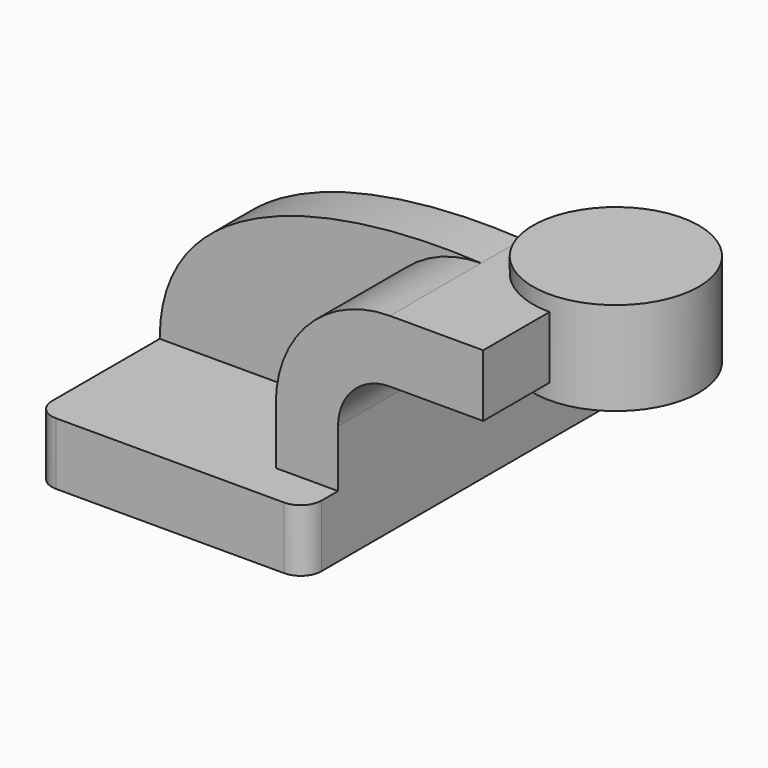
from build123d import *

# Parameters (mm, degrees)
F1_DEPTH = 63.5
F2_DEPTH = 50.8
F3_DEPTH = 15.875
F5_R     = 6.35


with BuildPart() as f1:
    # F0 (on Front) → F1 (new body, symmetric)
    with BuildSketch(Plane.XZ):
        Polygon((41.275, -9.525), (41.275, 9.525), (22.225, 9.525), (-41.275, 9.525), (-41.275, -9.525), align=None)
    extrude(amount=F1_DEPTH, both=True)

    # F0 (on Front) → F2 (join)
    with BuildSketch(Plane.XZ):
        with BuildLine():
            Line((22.225, 9.525), (41.275, 9.525))
            Line((41.275, 9.525), (41.275, 27.0002))
            ThreePointArc((41.275, 27.0002), (45.92468, 38.22552), (57.15, 42.8752))
            Line((57.15, 42.8752), (60.325, 42.8752))
            Line((60.325, 42.8752), (60.325, 61.9252))
            Line((60.325, 61.9252), (57.15, 61.9252))
            ThreePointArc((57.15, 61.9252), (32.454296, 51.695904), (22.225, 27.0002))
            Line((22.225, 27.0002), (22.225, 9.525))
        make_face()
        Polygon((60.325, 61.9252), (60.325, 42.8752), (74.941066, 42.8752), (85.725, 42.8752), (85.725, 61.9252), (74.941066, 61.9252), align=None)
    extrude(amount=F2_DEPTH)

    # F0 (on Front) → F3 (join)
    with BuildSketch(Plane.XZ):
        with BuildLine():
            Line((-41.275, 9.525), (22.225, 9.525))
            Line((22.225, 9.525), (22.225, 27.0002))
            ThreePointArc((22.225, 27.0002), (32.454296, 51.695904), (57.15, 61.9252))
            add(Edge.make_bspline(
                [(-41.275, 9.525), (-41.235335, 51.891662), (10.656322, 64.555697), (57.15, 61.9252)],
                knots=[0, 0, 0, 0, 111.504536, 111.504536, 111.504536, 111.504536], degree=3))
        make_face()
    extrude(amount=F3_DEPTH)

    # F0 (on Front) → F4 (revolve)
    with BuildSketch(Plane.XZ):
        Polygon((85.725, 42.8752), (85.725, 38.1), (111.125, 38.1), (111.125, 66.675), (85.725, 66.675), (85.725, 61.9252), align=None)
    revolve(axis=Axis((85.725, 0, 52.3875), (0, 0, 1)))

    # F5
    f5_edges = [f1.edges().sort_by_distance(p)[0] for p in [
        (-41.275, -63.5, 0),
        (41.275, -63.5, 0),
        (41.275, 63.5, 0),
        (-41.275, 63.5, 0),
    ]]
    fillet(f5_edges, radius=F5_R)


solid = f1.part
